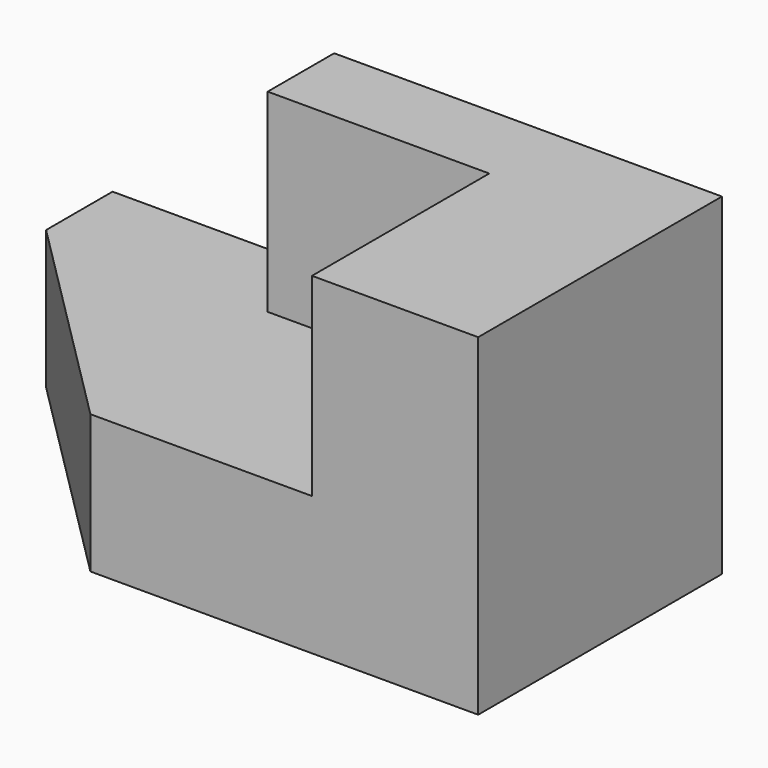
from build123d import *

# Parameters (mm, degrees)
F0_W     = 110
F0_H     = 55
F1_DEPTH = 60
F3_DEPTH = 60.001
F5_DEPTH = 35


with BuildPart() as f1:
    # F0 (on Top) → F1 (new body)
    with BuildSketch(Plane.XY):
        Rectangle(F0_W, F0_H)
    extrude(amount=F1_DEPTH)

    # F2 (on face) → F3 (cut, through all)
    with BuildSketch(Plane.XY.offset(60)):
        Polygon((-15, -27.5), (-55, 12.5), (-55, -27.5), align=None)
    extrude(amount=-F3_DEPTH, mode=Mode.SUBTRACT)

    # F4 (on face) → F5 (cut)
    with BuildSketch(Plane.XY.offset(60)):
        Polygon((-15, -27.5), (25, -27.5), (25, 12.5), (-15, 12.5), (-15, 27.5), (-55, 27.5), (-55, 12.5), align=None)
    extrude(amount=-F5_DEPTH, mode=Mode.SUBTRACT)


solid = f1.part
